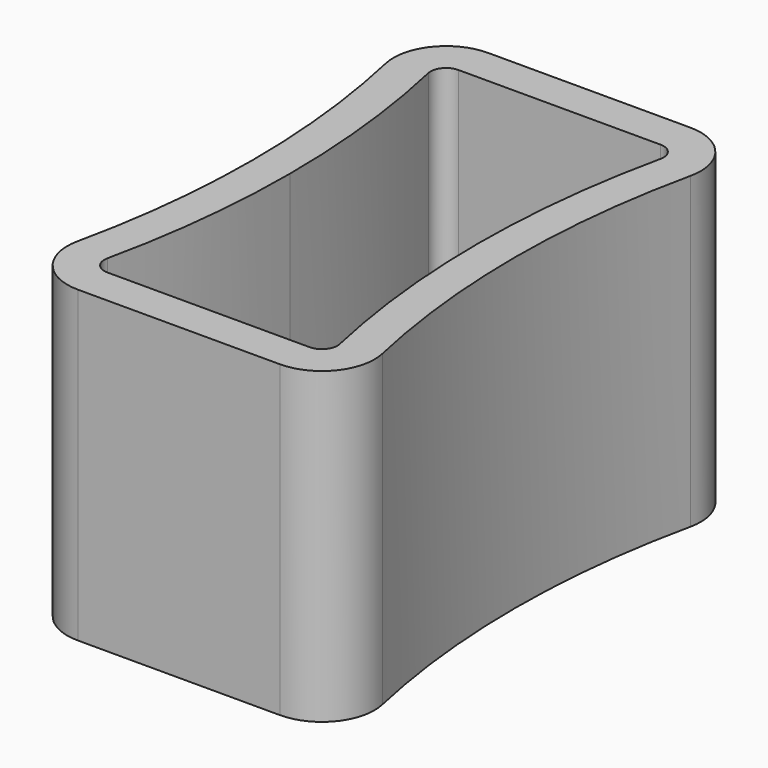
from build123d import *

# Parameters (mm, degrees)
F0_W     = 14
F0_H     = 20
F1_DEPTH = 10
F3_DEPTH = 8
F4_R     = 0.5
F5_W     = 14
F5_H     = 20
F6_DEPTH = 10


with BuildPart() as f1:
    # F0 (on Top) → F1 (new body)
    with BuildSketch(Plane.XY):
        Rectangle(F0_W, F0_H)
    extrude(amount=F1_DEPTH)

    # F2 (on face) → F3 (cut)
    with BuildSketch(Plane.XY.offset(10)):
        with BuildLine():
            ThreePointArc((3.9, -7.1), (3.05, 0), (3.9, 7.1))
            Line((3.9, 7.1), (-3.9, 7.1))
            ThreePointArc((-3.9, 7.1), (-3.2632560046, 3.5753496333), (-3.05, 0))
            ThreePointArc((-3.05, 0), (-3.2632560046, -3.5753496333), (-3.9, -7.1))
            Line((-3.9, -7.1), (3.9, -7.1))
        make_face()
    extrude(amount=-F3_DEPTH, mode=Mode.SUBTRACT)

    # F4
    f4_edges = [f1.edges().sort_by_distance(p)[0] for p in [
        (-3.9, 7.1, 6),
        (-3.9, -7.1, 6),
        (3.9, 7.1, 6),
        (3.9, -7.1, 6),
    ]]
    fillet(f4_edges, radius=F4_R)

    # F5 (on face) → F6 (cut, through all)
    with BuildSketch(Plane.XY.offset(10)):
        Rectangle(F5_W, F5_H)
        with BuildLine():
            ThreePointArc((4.9307012466, -6.2330688212), (4.5962509216, -7.6644756916), (3.2707730825, -8.3))
            Line((3.2707730825, -8.3), (-3.2707730825, -8.3))
            ThreePointArc((-3.2707730825, -8.3), (-4.5962509216, -7.6644756916), (-4.9307012466, -6.2330688212))
            ThreePointArc((-4.9307012466, -6.2330688212), (-4.25, 0), (-4.9307012466, 6.2330688212))
            ThreePointArc((-4.9307012466, 6.2330688212), (-4.5962509216, 7.6644756916), (-3.2707730825, 8.3))
            Line((-3.2707730825, 8.3), (3.2707730825, 8.3))
            ThreePointArc((3.2707730825, 8.3), (4.5962509216, 7.6644756916), (4.9307012466, 6.2330688212))
            ThreePointArc((4.9307012466, 6.2330688212), (4.25, 0), (4.9307012466, -6.2330688212))
        make_face(mode=Mode.SUBTRACT)
    extrude(amount=-F6_DEPTH, mode=Mode.SUBTRACT)


solid = f1.part
